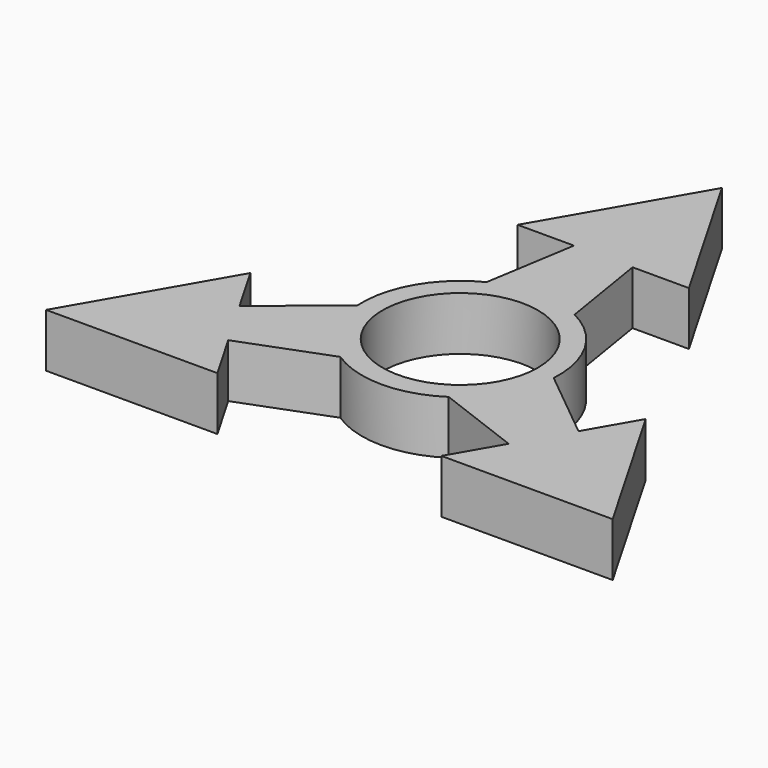
from build123d import *

# Parameters (mm, degrees)
F0_R     = 11.049
F1_DEPTH = 7.62


with BuildPart() as f1:
    # F0 (on Top) → F1 (new body)
    with BuildSketch(Plane.XY):
        with BuildLine():
            Line((-4.1656, 25.413496), (-6.255399, 12.506325))
            ThreePointArc((-6.255399, 12.506325), (-12.110063, 6.991748), (-13.958494, -0.835828))
            Line((-13.958494, -0.835828), (-24.089977, -9.101929))
            Line((-24.089977, -9.101929), (-28.095764, -2.163703))
            Line((-28.095764, -2.163703), (-40.269824, -23.249794))
            Line((-40.269824, -23.249794), (-15.921703, -23.249794))
            Line((-15.921703, -23.249794), (-19.925933, -16.314264))
            Line((-19.925933, -16.314264), (-7.703095, -11.670497))
            ThreePointArc((-7.703095, -11.670497), (0, -13.983496), (7.703095, -11.670497))
            Line((7.703095, -11.670497), (19.92749, -16.311567))
            Line((19.92749, -16.311567), (15.921703, -23.249794))
            Line((15.921703, -23.249794), (40.269824, -23.249794))
            Line((40.269824, -23.249794), (28.095764, -2.163703))
            Line((28.095764, -2.163703), (24.091533, -9.099233))
            Line((24.091533, -9.099233), (13.958494, -0.835828))
            ThreePointArc((13.958494, -0.835828), (12.110063, 6.991748), (6.255399, 12.506325))
            Line((6.255399, 12.506325), (4.162487, 25.413496))
            Line((4.162487, 25.413496), (12.17406, 25.413496))
            Line((12.17406, 25.413496), (0, 46.499587))
            Line((0, 46.499587), (-12.17406, 25.413496))
            Line((-12.17406, 25.413496), (-4.1656, 25.413496))
        make_face()
        Circle(F0_R, mode=Mode.SUBTRACT)
    extrude(amount=F1_DEPTH)


solid = f1.part
